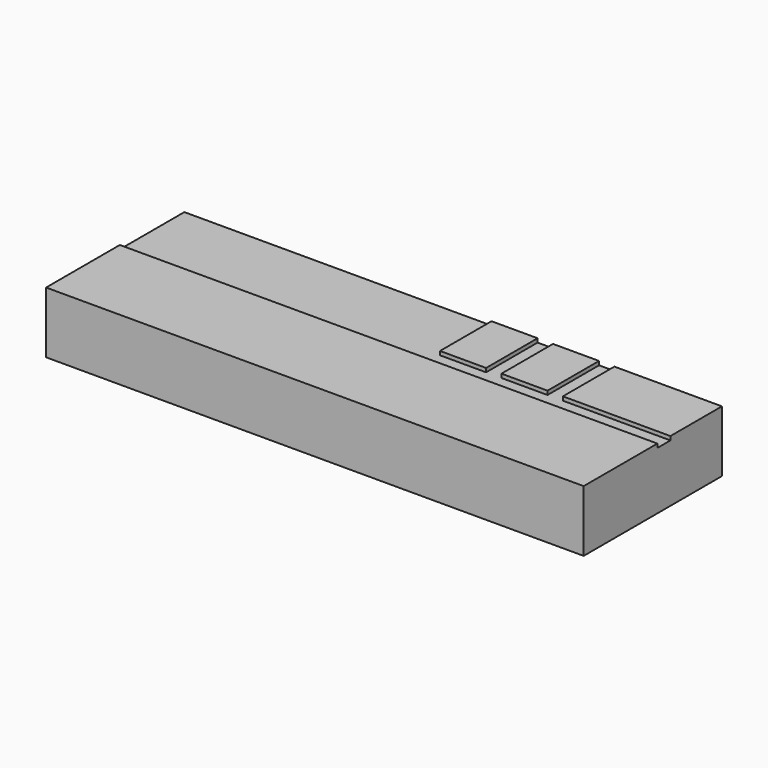
from build123d import *

# Parameters (mm, degrees)
F0_W     = 5
F0_H     = 10.5
F0_W_2   = 6
F0_W_3   = 2
F0_W_4   = 5.986488
F0_H_2   = 8.383031
F0_W_5   = 3
F1_DEPTH = 8
F2_DEPTH = 0.5


with BuildPart() as f1:
    # F0 (on Top) → F1 (new body)
    with BuildSketch(Plane.XY):
        with Locations((32.5, -6)):
            Rectangle(F0_W, F0_H)
        with Locations((27, -6)):
            Rectangle(F0_W_2, F0_H)
        Polygon((30, -0.75), (35, -0.75), (35, 0.75), (29.013512, 0.75), (27.013512, 0.75), (21.000294, 0.75), (19.000294, 0.75), (13.000294, 0.75), (11.000294, 0.75), (5.000294, 0.75), (3.000294, 0.75), (-2.999706, 0.75), (-4.999706, 0.75), (-10.999706, 0.75), (-12.999706, 0.75), (-18.999706, 0.75), (-20.999706, 0.75), (-26.999706, 0.75), (-35, 0.75), (-35, -0.75), (-32, -0.75), (-26, -0.75), (-24, -0.75), (-18, -0.75), (-16, -0.75), (-10, -0.75), (-8, -0.75), (-2, -0.75), (0, -0.75), (6, -0.75), (8, -0.75), (14, -0.75), (16, -0.75), (22, -0.75), (24, -0.75), align=None)
        with Locations((23, -6)):
            Rectangle(F0_W_3, F0_H)
        Polygon((29.013512, 0.75), (35, 0.75), (35, 2.866969), (29.013512, 2.866969), (27.013512, 2.866969), (21.000294, 2.866969), (19.000294, 2.866969), (13.000294, 2.866969), (11.000294, 2.866969), (5.000294, 2.866969), (5.000294, 11.25), (-35, 11.25), (-35, 0.75), (-26.999706, 0.75), (-20.999706, 0.75), (-18.999706, 0.75), (-12.999706, 0.75), (-10.999706, 0.75), (-4.999706, 0.75), (-2.999706, 0.75), (3.000294, 0.75), (5.000294, 0.75), (11.000294, 0.75), (13.000294, 0.75), (19.000294, 0.75), (21.000294, 0.75), (27.013512, 0.75), align=None)
        with Locations((19, -6)):
            Rectangle(F0_W_2, F0_H)
        with Locations((32.006756, 7.058484)):
            Rectangle(F0_W_4, F0_H_2)
        with Locations((15, -6)):
            Rectangle(F0_W_3, F0_H)
        Polygon((27.013512, 2.866969), (29.013512, 2.866969), (29.013512, 11.25), (21.000294, 11.25), (21.000294, 2.866969), align=None)
        with Locations((11, -6)):
            Rectangle(F0_W_2, F0_H)
        with Locations((7, -6)):
            Rectangle(F0_W_3, F0_H)
        with Locations((20.000294, 7.058484)):
            Rectangle(F0_W_3, F0_H_2)
        with Locations((3, -6)):
            Rectangle(F0_W_2, F0_H)
        with Locations((16.000294, 7.058484)):
            Rectangle(F0_W_2, F0_H_2)
        with Locations((-1, -6)):
            Rectangle(F0_W_3, F0_H)
        with Locations((12.000294, 7.058484)):
            Rectangle(F0_W_3, F0_H_2)
        with Locations((-5, -6)):
            Rectangle(F0_W_2, F0_H)
        with Locations((8.000294, 7.058484)):
            Rectangle(F0_W_2, F0_H_2)
        with Locations((-9, -6)):
            Rectangle(F0_W_3, F0_H)
        with Locations((-13, -6)):
            Rectangle(F0_W_2, F0_H)
        with Locations((-17, -6)):
            Rectangle(F0_W_3, F0_H)
        with Locations((-21, -6)):
            Rectangle(F0_W_2, F0_H)
        with Locations((-33.5, -6)):
            Rectangle(F0_W_5, F0_H)
        with Locations((-25, -6)):
            Rectangle(F0_W_3, F0_H)
        with Locations((-29, -6)):
            Rectangle(F0_W_2, F0_H)
    extrude(amount=-F1_DEPTH)

    # F0 (on Top) → F2 (cut)
    with BuildSketch(Plane.XY):
        Polygon((29.013512, 0.75), (35, 0.75), (35, 2.866969), (29.013512, 2.866969), (27.013512, 2.866969), (21.000294, 2.866969), (19.000294, 2.866969), (13.000294, 2.866969), (11.000294, 2.866969), (5.000294, 2.866969), (5.000294, 11.25), (-35, 11.25), (-35, 0.75), (-26.999706, 0.75), (-20.999706, 0.75), (-18.999706, 0.75), (-12.999706, 0.75), (-10.999706, 0.75), (-4.999706, 0.75), (-2.999706, 0.75), (3.000294, 0.75), (5.000294, 0.75), (11.000294, 0.75), (13.000294, 0.75), (19.000294, 0.75), (21.000294, 0.75), (27.013512, 0.75), align=None)
        with Locations((12.000294, 7.058484)):
            Rectangle(F0_W_3, F0_H_2)
        with Locations((20.000294, 7.058484)):
            Rectangle(F0_W_3, F0_H_2)
    extrude(amount=-F2_DEPTH, mode=Mode.SUBTRACT)


solid = f1.part
